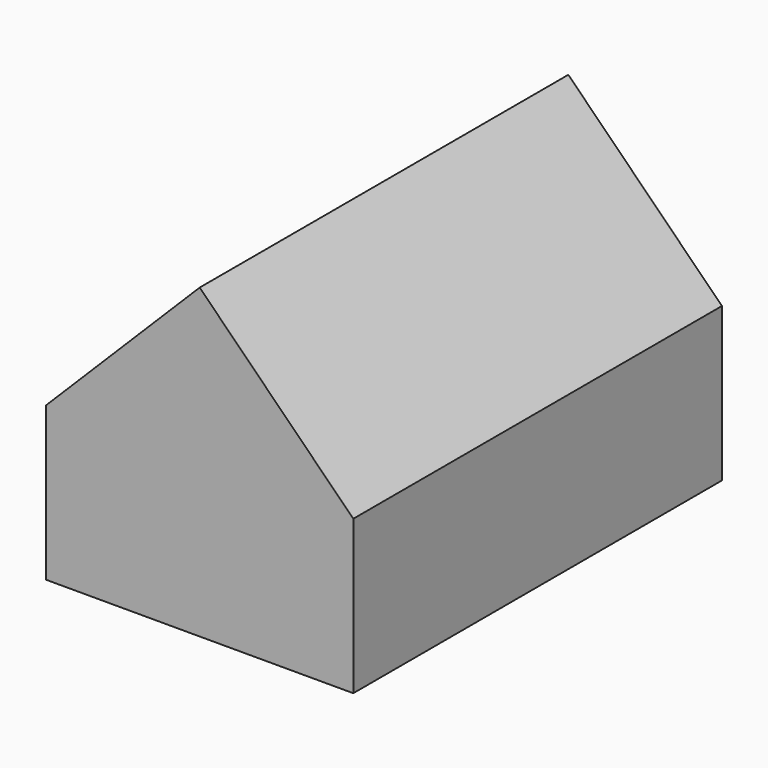
from build123d import *

# Parameters (mm, degrees)
F1_DEPTH = 120


with BuildPart() as f1:
    # F0 (on Front) → F1 (new body)
    with BuildSketch(Plane.XZ):
        Polygon((-40, 40), (-40, 0), (0, 0), (40, 0), (40, 40), (0, 40), align=None)
        Polygon((0, 80), (-40, 40), (0, 40), align=None)
        Polygon((0, 80), (0, 40), (40, 40), align=None)
    extrude(amount=F1_DEPTH)


solid = f1.part
